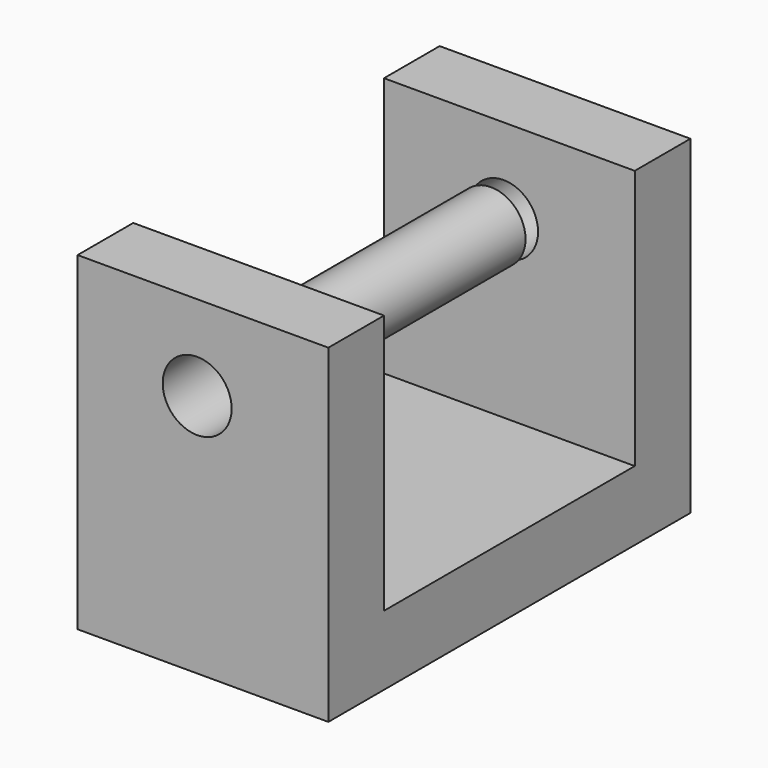
from build123d import *

# Parameters (mm, degrees)
F1_DEPTH = 80
F2_R     = 11
F3_DEPTH = 75
F4_DEPTH = 45


with BuildPart() as f1:
    # F0 (on Right) → F1 (new body)
    with BuildSketch(Plane.YZ):
        Polygon((-50, -32.101312), (-50, 50.818503), (-72.189736, 50.818503), (-72.189736, -54.291049), (72.189736, -54.291049), (72.189736, 50.818503), (50, 50.818503), (50, -32.101312), align=None)
    extrude(amount=F1_DEPTH)

    # F2 (on Front) → F3 (cut, symmetric)
    with BuildSketch(Plane.XZ):
        with Locations((38.152507, 23.643674)):
            Circle(F2_R)
    extrude(amount=F3_DEPTH, both=True, mode=Mode.SUBTRACT)


with BuildPart() as f4:
    # F2 (on Front) → F4 (new body, symmetric)
    with BuildSketch(Plane.XZ):
        with Locations((38.152507, 23.643674)):
            Circle(F2_R)
    extrude(amount=F4_DEPTH, both=True)


solid = Compound([f1.part, f4.part])
